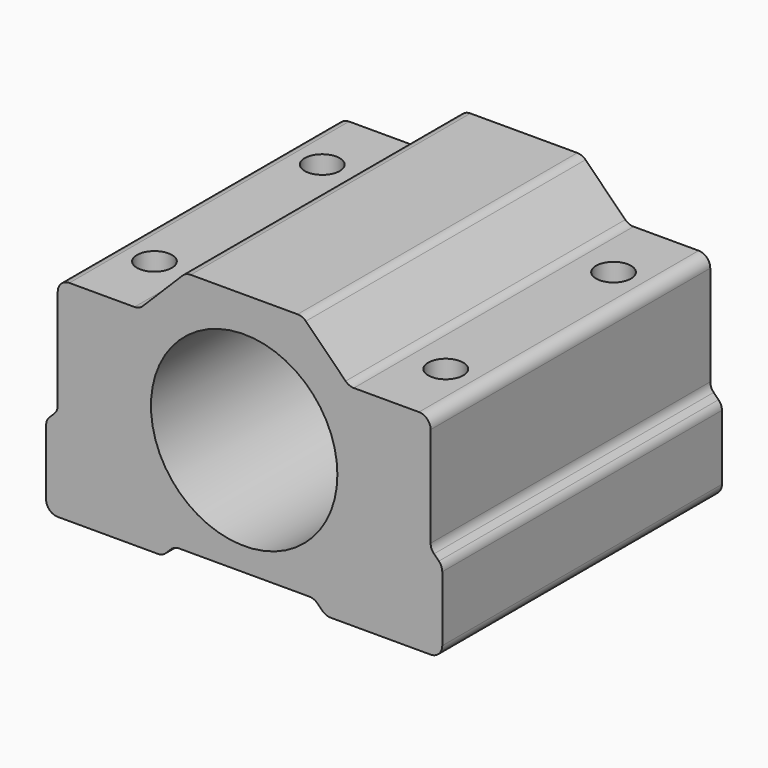
from build123d import *

# Parameters (mm, degrees)
F0_R     = 8
F1_DEPTH = 30
F2_R     = 1.5
F3_DEPTH = 18.001


with BuildPart() as f1:
    # F0 (on Front) → F1 (new body)
    with BuildSketch(Plane.XZ):
        with BuildLine():
            ThreePointArc((-17, -10), (-16.707107, -10.707107), (-16, -11))
            Line((-16, -11), (-7.414214, -11))
            ThreePointArc((-7.414214, -11), (-7.03153, -10.92388), (-6.707107, -10.707107))
            Line((-6.707107, -10.707107), (-6.292893, -10.292893))
            ThreePointArc((-6.292893, -10.292893), (-5.96847, -10.07612), (-5.585786, -10))
            Line((-5.585786, -10), (5.585786, -10))
            ThreePointArc((5.585786, -10), (5.96847, -10.07612), (6.292893, -10.292893))
            Line((6.292893, -10.292893), (6.707107, -10.707107))
            ThreePointArc((6.707107, -10.707107), (7.03153, -10.92388), (7.414214, -11))
            Line((7.414214, -11), (16, -11))
            ThreePointArc((16, -11), (16.707107, -10.707107), (17, -10))
            Line((17, -10), (17, -4.414214))
            ThreePointArc((17, -4.414214), (16.92388, -4.03153), (16.707107, -3.707107))
            Line((16.707107, -3.707107), (16.292893, -3.292893))
            ThreePointArc((16.292893, -3.292893), (16.07612, -2.96847), (16, -2.585786))
            Line((16, -2.585786), (16, 6))
            ThreePointArc((16, 6), (15.707107, 6.707107), (15, 7))
            Line((15, 7), (9.414214, 7))
            ThreePointArc((9.414214, 7), (9.03153, 7.07612), (8.707107, 7.292893))
            Line((8.707107, 7.292893), (5.292893, 10.707107))
            ThreePointArc((5.292893, 10.707107), (4.96847, 10.92388), (4.585786, 11))
            Line((4.585786, 11), (-4.585786, 11))
            ThreePointArc((-4.585786, 11), (-4.96847, 10.92388), (-5.292893, 10.707107))
            Line((-5.292893, 10.707107), (-8.707107, 7.292893))
            ThreePointArc((-8.707107, 7.292893), (-9.03153, 7.07612), (-9.414214, 7))
            Line((-9.414214, 7), (-15, 7))
            ThreePointArc((-15, 7), (-15.707107, 6.707107), (-16, 6))
            Line((-16, 6), (-16, -2.585786))
            ThreePointArc((-16, -2.585786), (-16.07612, -2.96847), (-16.292893, -3.292893))
            Line((-16.292893, -3.292893), (-16.707107, -3.707107))
            ThreePointArc((-16.707107, -3.707107), (-16.92388, -4.03153), (-17, -4.414214))
            Line((-17, -4.414214), (-17, -10))
        make_face()
        Circle(F0_R, mode=Mode.SUBTRACT)
    extrude(amount=F1_DEPTH)

    # F2 (on face) → F3 (cut, through all)
    with BuildSketch(Plane.XY.offset(7)):
        with Locations((-12.5, -6)):
            Circle(F2_R)
        with Locations((-12.5, -24)):
            Circle(F2_R)
        with Locations((12.5, -6)):
            Circle(F2_R)
        with Locations((12.5, -24)):
            Circle(F2_R)
    extrude(amount=-F3_DEPTH, mode=Mode.SUBTRACT)


solid = f1.part
